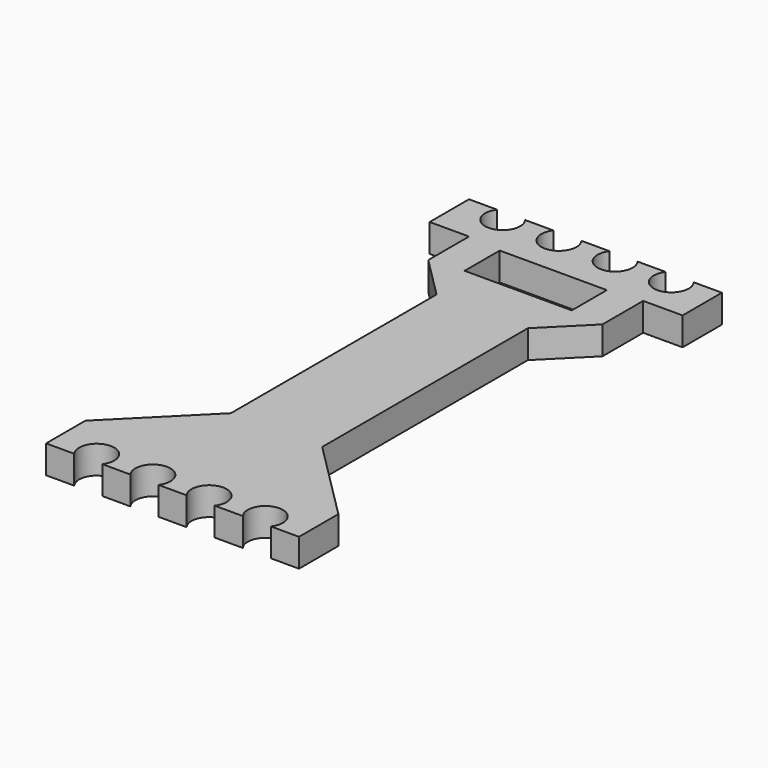
from build123d import *

# Parameters (mm, degrees)
F0_W     = 15.25
F0_H     = 6.25
F1_DEPTH = 4


with BuildPart() as f1:
    # F0 (on Top) → F1 (new body)
    with BuildSketch(Plane.XY):
        with BuildLine():
            ThreePointArc((8, 7.004538), (6.003411, 3), (4.006822, 7.004538))
            Line((4.006822, 7.004538), (0, 7.004538))
            Line((0, 7.004538), (0, 0))
            Line((0, 0), (5.603411, 0))
            Line((5.603411, 0), (5.603411, -7.25))
            Line((5.603411, -7.25), (11.503411, -13.15))
            Line((11.503411, -13.15), (11.503411, -49.746589))
            Line((11.503411, -49.746589), (0, -61.25))
            Line((0, -61.25), (0, -68.254538))
            Line((0, -68.254538), (4.006822, -68.254538))
            ThreePointArc((4.006822, -68.254538), (6.003411, -64.25), (8, -68.254538))
            Line((8, -68.254538), (12.006822, -68.254538))
            ThreePointArc((12.006822, -68.254538), (14.003411, -64.25), (16, -68.254538))
            Line((16, -68.254538), (20.006822, -68.254538))
            ThreePointArc((20.006822, -68.254538), (22.003411, -64.25), (24, -68.254538))
            Line((24, -68.254538), (28.006822, -68.254538))
            ThreePointArc((28.006822, -68.254538), (30.003411, -64.25), (32, -68.254538))
            Line((32, -68.254538), (36.006822, -68.254538))
            Line((36.006822, -68.254538), (36.006822, -61.25))
            Line((36.006822, -61.25), (24.503411, -49.746589))
            Line((24.503411, -49.746589), (24.503411, -13.15))
            Line((24.503411, -13.15), (30.403411, -7.25))
            Line((30.403411, -7.25), (30.403411, 0))
            Line((30.403411, 0), (36.006822, 0))
            Line((36.006822, 0), (36.006822, 7.004538))
            Line((36.006822, 7.004538), (32, 7.004538))
            ThreePointArc((32, 7.004538), (30.003411, 3), (28.006822, 7.004538))
            Line((28.006822, 7.004538), (24, 7.004538))
            ThreePointArc((24, 7.004538), (22.003411, 3), (20.006822, 7.004538))
            Line((20.006822, 7.004538), (16, 7.004538))
            ThreePointArc((16, 7.004538), (14.003411, 3), (12.006822, 7.004538))
            Line((12.006822, 7.004538), (8, 7.004538))
        make_face()
        with Locations((18.003411, -3.625)):
            Rectangle(F0_W, F0_H, mode=Mode.SUBTRACT)
    extrude(amount=F1_DEPTH)


solid = f1.part
